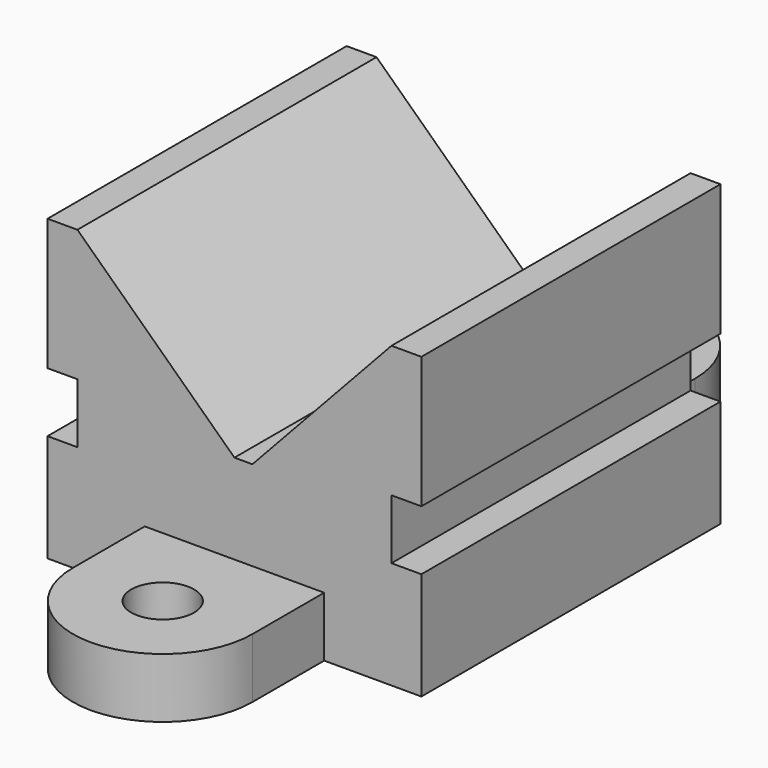
from build123d import *

# Parameters (mm, degrees)
F1_DEPTH = 62.5
F2_R     = 10.5
F3_DEPTH = 20


with BuildPart() as f1:
    # F0 (on Front) → F1 (new body, symmetric)
    with BuildSketch(Plane.XZ):
        Polygon((0, 0), (125, 0), (125, 36), (115, 36), (115, 56), (125, 56), (125, 100), (115, 100), (68.5, 50), (62.5, 50), (10, 100), (0, 100), (0, 56), (10, 56), (10, 36), (0, 36), align=None)
    extrude(amount=F1_DEPTH, both=True)

    # F2 (on Top) → F3 (join)
    with BuildSketch(Plane.XY):
        with BuildLine():
            Line((62.5, -62.5), (32.5, -62.5))
            Line((32.5, -62.5), (32.5, -92.5))
            ThreePointArc((32.5, -92.5), (62.5, -122.5), (92.5, -92.5))
            Line((92.5, -92.5), (92.5, -62.5))
            Line((92.5, -62.5), (62.5, -62.5))
        make_face()
        with Locations((62.5, -92.5)):
            Circle(F2_R, mode=Mode.SUBTRACT)
        with BuildLine():
            Line((32.5, 92.5), (32.5, 62.5))
            Line((32.5, 62.5), (62.5, 62.5))
            Line((62.5, 62.5), (92.5, 62.5))
            Line((92.5, 62.5), (92.5, 92.5))
            ThreePointArc((92.5, 92.5), (62.5, 122.5), (32.5, 92.5))
        make_face()
        with Locations((62.5, 92.5)):
            Circle(F2_R, mode=Mode.SUBTRACT)
    extrude(amount=F3_DEPTH)


solid = f1.part
